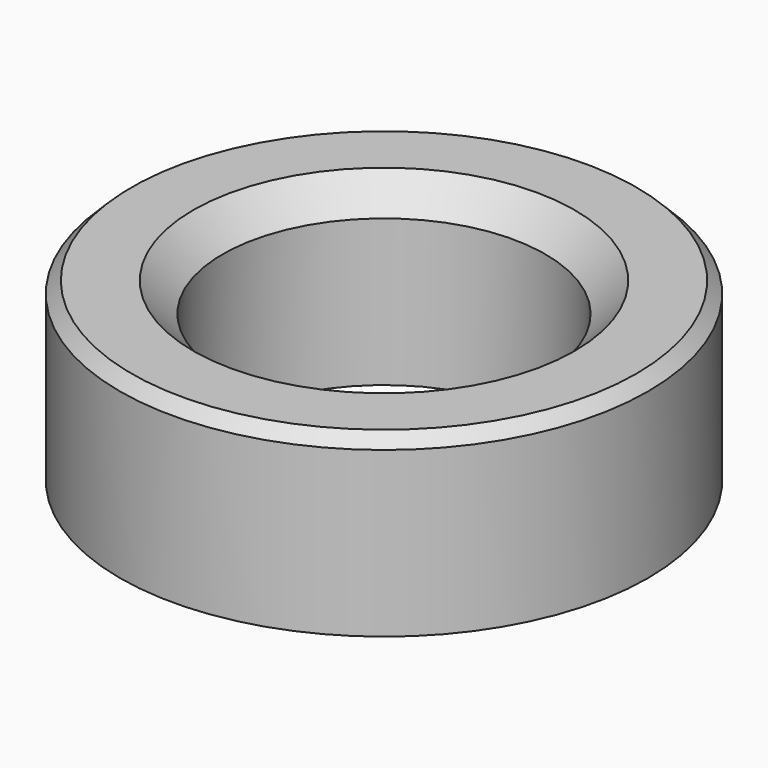
from build123d import *

# Parameters (mm, degrees)
SKETCH014_R     = 4.5
SKETCH014_R_2   = 2.75
PAD007_DEPTH    = 3
CHAMFER001_SIZE = 0.5
CHAMFER002_SIZE = 0.2


with BuildPart() as part:
    # Sketch014 → Pad007 (new body)
    with BuildSketch(Plane.XY):
        Circle(SKETCH014_R)
        Circle(SKETCH014_R_2, mode=Mode.SUBTRACT)
    extrude(amount=PAD007_DEPTH)

    # Chamfer001
    chamfer001_edges = [part.edges().sort_by_distance(p)[0] for p in [
        (-2.75, 0, 3),
    ]]
    chamfer(chamfer001_edges, length=CHAMFER001_SIZE)

    # Chamfer002
    chamfer002_edges = [part.edges().sort_by_distance(p)[0] for p in [
        (-4.5, 0, 3),
    ]]
    chamfer(chamfer002_edges, length=CHAMFER002_SIZE)


with BuildPart() as part_1:
    # Body003 placement: moved
    add(part.part.moved(Location((0, 0, 1))))


solid = part_1.part
